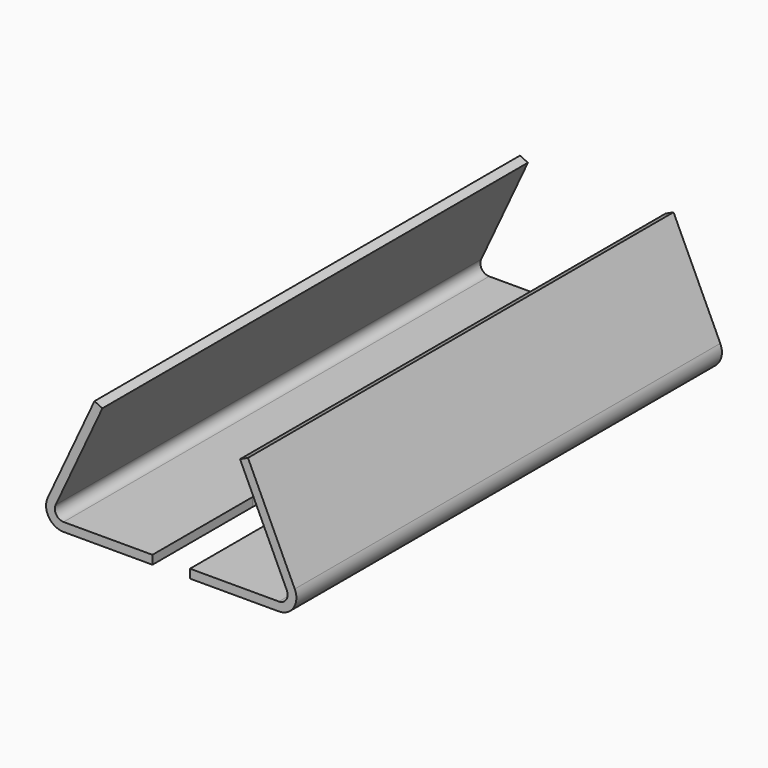
from build123d import *

# Parameters (mm, degrees)
F1_DEPTH = 85
F3_DEPTH = 2.801


with BuildPart() as f1:
    # F0 (on Front) → F1 (new body, symmetric)
    with BuildSketch(Plane.XZ):
        with BuildLine():
            Line((18.652306, 40), (3.714916, 7.966662))
            ThreePointArc((3.714916, 7.966662), (4.067247, 2.591122), (8.790239, 0))
            Line((8.790239, 0), (77.590239, 0))
            ThreePointArc((77.590239, 0), (82.31449, 2.593095), (82.663585, 7.970904))
            Line((82.663585, 7.970904), (67.726194, 40.004241))
            Line((67.726194, 40.004241), (65.188533, 38.82091))
            Line((65.188533, 38.82091), (80.127901, 6.783331))
            ThreePointArc((80.127901, 6.783331), (79.951735, 4.095561), (77.590239, 2.8))
            Line((77.590239, 2.8), (8.790239, 2.8))
            ThreePointArc((8.790239, 2.8), (6.428743, 4.095561), (6.252577, 6.783331))
            Line((6.252577, 6.783331), (21.189968, 38.816669))
            Line((21.189968, 38.816669), (18.652306, 40))
        make_face()
    extrude(amount=F1_DEPTH, both=True)

    # F2 (on face) → F3 (cut, through all)
    with BuildSketch(Plane.XY.offset(2.8)):
        with BuildLine():
            Line((49.190239, -85), (49.190239, -45))
            ThreePointArc((49.190239, -45), (43.190239, -39), (37.190239, -45))
            Line((37.190239, -45), (37.190239, -85))
            Line((37.190239, -85), (49.190239, -85))
        make_face()
        with BuildLine():
            Line((49.190239, 45), (49.190239, 85))
            Line((49.190239, 85), (37.190239, 85))
            Line((37.190239, 85), (37.190239, 45))
            ThreePointArc((37.190239, 45), (43.190239, 39), (49.190239, 45))
        make_face()
    extrude(amount=-F3_DEPTH, mode=Mode.SUBTRACT)


solid = f1.part
